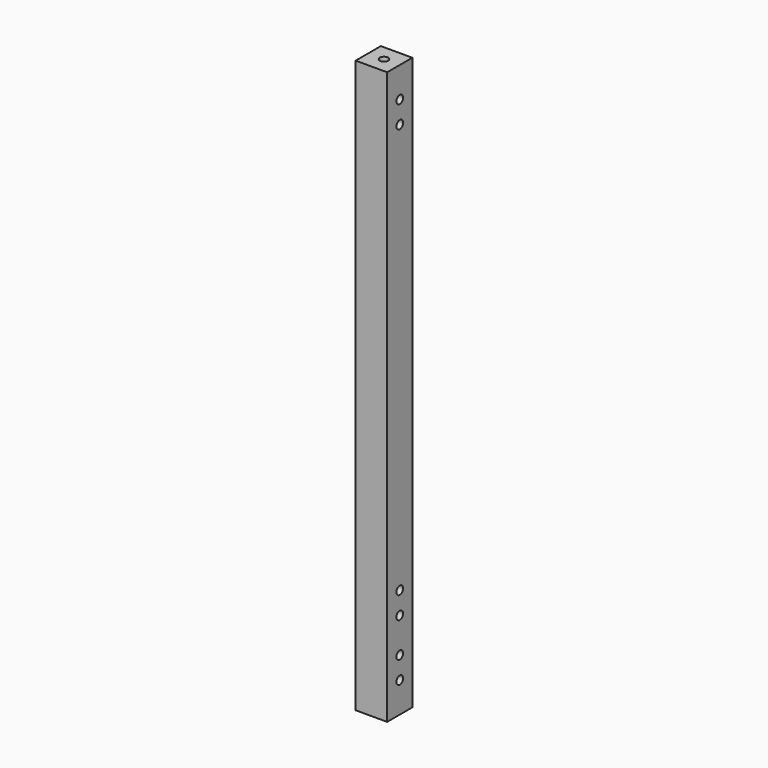
from build123d import *

# Parameters (mm, degrees)
SKETCH_W     = 11.4
SKETCH_H     = 11.4
SKETCH_R     = 1.5
PAD_DEPTH    = 207
SKETCH001_R  = 1.5
POCKET_DEPTH = 11.401


with BuildPart() as part:
    # Sketch → Pad (new body)
    with BuildSketch(Plane.XY):
        with Locations((5.7, 5.7)):
            Rectangle(SKETCH_W, SKETCH_H)
        with Locations((5.7, 5.7)):
            Circle(SKETCH_R, mode=Mode.SUBTRACT)
    extrude(amount=PAD_DEPTH)

    # Sketch001 → Pocket (cut, through all)
    with BuildSketch(Plane.YZ.offset(11.4)):
        with Locations((5.7, 39.65)):
            Circle(SKETCH001_R)
        with Locations((5.7, 31.65)):
            Circle(SKETCH001_R)
        with Locations((5.7, 19)):
            Circle(SKETCH001_R)
        with Locations((5.7, 11)):
            Circle(SKETCH001_R)
        with Locations((5.7, 196)):
            Circle(SKETCH001_R)
        with Locations((5.7, 188)):
            Circle(SKETCH001_R)
    extrude(amount=-POCKET_DEPTH, mode=Mode.SUBTRACT)


solid = part.part
